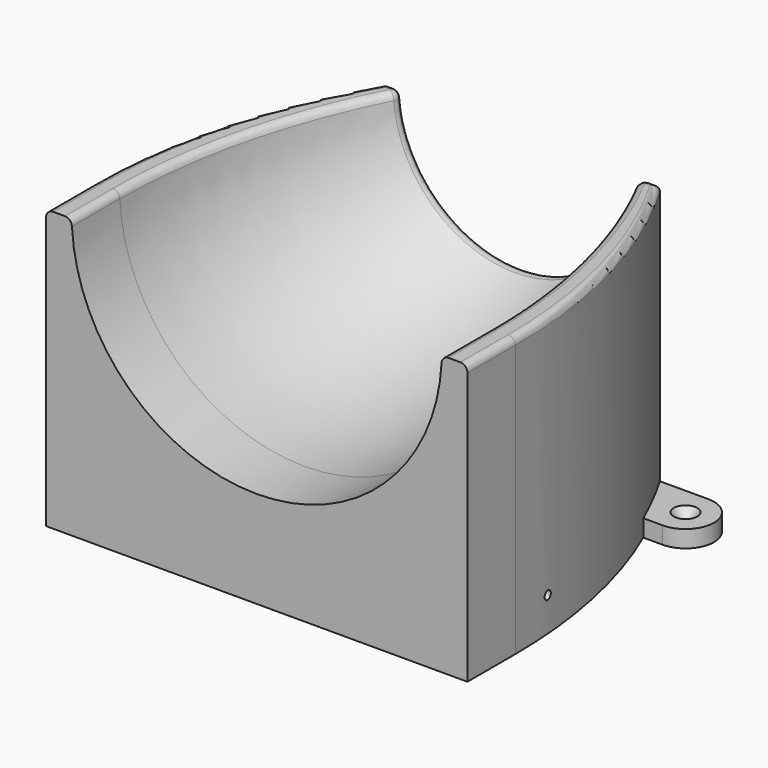
from build123d import *

# Parameters (mm, degrees)
CYLINDER063_R              = 1.6
CYLINDER063_DEPTH          = 10
EXTRUDE027_DEPTH           = 6
EXTRUDE030_DEPTH           = 6
EXTRUDE030_PLACEMENT_ANGLE = 180
CYLINDER072_R              = 1.5
CYLINDER072_DEPTH          = 45
PRISM011_DEPTH             = 3
CYLINDER071_R              = 3
CYLINDER071_DEPTH          = 5
FUSION063_PLACEMENT_ANGLE  = 180
CYLINDER070_R              = 1.5
CYLINDER070_DEPTH          = 45
PRISM010_DEPTH             = 3
CYLINDER068_R              = 3
CYLINDER068_DEPTH          = 5
EXTRUDE026_DEPTH           = 24
REVOLVE001_ANGLE           = 180
EXTRUDE025_DEPTH           = 74
FILLET004_R                = 2.5


with BuildPart() as cono003:
    # Cone003 → Cone003 (revolve)
    with BuildSketch(Plane(origin=(0, 0, -96), x_dir=(1, 0, 0), z_dir=(0, -1, 0))):
        Polygon((0, 0), (1.6, 0), (4.1, 3), (0, 3), align=None)
    revolve(axis=Axis((0, 0, -96), (0, 0, 1)))


with BuildPart() as cilindro063:
    # Cylinder063 → Cylinder063 (new body)
    with BuildSketch(Plane.XY.offset(-106)):
        Circle(CYLINDER063_R)
    extrude(amount=CYLINDER063_DEPTH)


with BuildPart() as fusion058:
    # Fusion058 base: copy of Cilindro063
    add(cilindro063.part)

    # Fusion058: union Cono003
    add(cono003.part)


with BuildPart() as fusion058_1:
    # Fusion058 placement: moved
    add(fusion058.part.moved(Location((65, 107, 0))))


with BuildPart() as fusion059:
    # Fusion057 base: copy of Cilindro063
    add(cilindro063.part)

    # Fusion057: union Cono003
    add(cono003.part)


with BuildPart() as fusion059_1:
    # Fusion057 placement: moved
    add(fusion059.part.moved(Location((-65, 107, 0))))

    # Fusion059: union Fusion058
    add(fusion058_1.part)


with BuildPart() as extrude027:
    # Sketch020 → Extrude027 (new body)
    with BuildSketch(Plane.XY.offset(-99)):
        with BuildLine():
            ThreePointArc((0, 10), (-10, 0), (0, -10))
            Line((20, -10), (0, -10))
            Line((20, 10), (20, -10))
            Line((0, 10), (20, 10))
        make_face()
    extrude(amount=EXTRUDE027_DEPTH)


with BuildPart() as extrude027_1:
    # Extrude027 placement: moved
    add(extrude027.part.moved(Location((-65, 107, 0))))


with BuildPart() as cut022:
    # Sketch020 → Extrude030 (new body)
    with BuildSketch(Plane.XY.offset(-99)):
        with BuildLine():
            ThreePointArc((0, 10), (-10, 0), (0, -10))
            Line((20, -10), (0, -10))
            Line((20, 10), (20, -10))
            Line((0, 10), (20, 10))
        make_face()
    extrude(amount=EXTRUDE030_DEPTH)


with BuildPart() as cut022_1:
    # Extrude030 placement: moved
    add(cut022.part.moved(Location((65, 107, 0))).rotate(Axis((65, 107, 0), (0, 0, 1)), EXTRUDE030_PLACEMENT_ANGLE))

    # Fusion055: union Extrude027
    add(extrude027_1.part)

    # Cut022: cut Fusion059
    add(fusion059_1.part, mode=Mode.SUBTRACT)


with BuildPart() as cilindro072:
    # Cylinder072 → Cylinder072 (new body)
    with BuildSketch(Plane(origin=(33, 0, -87), x_dir=(0, 0, 1), z_dir=(-1, 0, 0))):
        Circle(CYLINDER072_R)
    extrude(amount=CYLINDER072_DEPTH)


with BuildPart() as prisma011:
    # Prism011 → Prism011 (new body)
    with BuildSketch(Plane(origin=(0, 0, -87), x_dir=(0, 0, 1), z_dir=(-1, 0, 0))):
        Polygon((3, 0), (1.5, 2.598076), (-1.5, 2.598076), (-3, 0), (-1.5, -2.598076), (1.5, -2.598076), align=None)
    extrude(amount=PRISM011_DEPTH)


with BuildPart() as fusion063:
    # Cylinder071 → Cylinder071 (new body)
    with BuildSketch(Plane(origin=(24, 0, -87), x_dir=(0, 0, 1), z_dir=(-1, 0, 0))):
        Circle(CYLINDER071_R)
    extrude(amount=CYLINDER071_DEPTH)

    # Fusion063: union Cilindro072, Prisma011
    add(cilindro072.part)
    add(prisma011.part)


with BuildPart() as fusion063_1:
    # Fusion063 placement: moved
    add(fusion063.part.moved(Location((-65, 36, 0))).rotate(Axis((-65, 36, 0), (0, 0, 1)), FUSION063_PLACEMENT_ANGLE))


with BuildPart() as cilindro070:
    # Cylinder070 → Cylinder070 (new body)
    with BuildSketch(Plane(origin=(98, 36, -87), x_dir=(0, 0, 1), z_dir=(-1, 0, 0))):
        Circle(CYLINDER070_R)
    extrude(amount=CYLINDER070_DEPTH)


with BuildPart() as prisma010:
    # Prism010 → Prism010 (new body)
    with BuildSketch(Plane(origin=(65, 36, -87), x_dir=(0, 0, 1), z_dir=(-1, 0, 0))):
        Polygon((3, 0), (1.5, 2.598076), (-1.5, 2.598076), (-3, 0), (-1.5, -2.598076), (1.5, -2.598076), align=None)
    extrude(amount=PRISM010_DEPTH)


with BuildPart() as fusion061:
    # Cylinder068 → Cylinder068 (new body)
    with BuildSketch(Plane(origin=(89, 36, -87), x_dir=(0, 0, 1), z_dir=(-1, 0, 0))):
        Circle(CYLINDER068_R)
    extrude(amount=CYLINDER068_DEPTH)

    # Fusion062: union Cilindro070, Prisma010
    add(cilindro070.part)
    add(prisma010.part)

    # Fusion061: union Fusion063
    add(fusion063_1.part)


with BuildPart() as cut023:
    # Sketch019 → Extrude026 (new body)
    with BuildSketch(Plane.XY.offset(-75)):
        with BuildLine():
            ThreePointArc((-48, 117), (-67.384986, 70.729267), (-74, 21))
            Line((-74, 21), (-74, 0))
            Line((-74, 0), (74, 0))
            Line((74, 21), (74, 0))
            ThreePointArc((74, 21), (67.384986, 70.729267), (48, 117))
            Line((-48, 117), (48, 117))
        make_face()
        with BuildLine():
            Line((-38, 107), (-7.5, 107))
            Line((-7.5, 107), (-7.5, 7.5))
            Line((-7.5, 7.5), (-64, 7.5))
            Line((-64, 7.5), (-64, 21))
            ThreePointArc((-38, 107), (-57.357897, 65.922155), (-64, 21))
        make_face(mode=Mode.SUBTRACT)
        with BuildLine():
            Line((7.5, 107), (7.5, 7.5))
            Line((7.5, 7.5), (64, 7.5))
            Line((64, 7.5), (64, 21))
            ThreePointArc((64, 21), (57.357897, 65.922155), (38, 107))
            Line((38, 107), (7.5, 107))
        make_face(mode=Mode.SUBTRACT)
    extrude(amount=-EXTRUDE026_DEPTH)

    # Cut023: cut Fusion061
    add(fusion061.part, mode=Mode.SUBTRACT)


with BuildPart() as revolve001:
    # Sketch017 → Revolve001 (revolve)
    with BuildSketch(Plane.XY):
        with BuildLine():
            Line((-65, 21), (-65, -21))
            ThreePointArc((-65, -21), (-58.133531, -73.27332), (-38, -122))
            Line((-38, -122), (0, -122))
            Line((0, 122), (0, -122))
            Line((0, 122), (-38, 122))
            ThreePointArc((-38, 122), (-58.133531, 73.27332), (-65, 21))
        make_face()
    revolve(axis=Axis((0, 0, 0), (0, -1, 0)), revolution_arc=REVOLVE001_ANGLE)


with BuildPart() as obj1:
    # Sketch018 → Extrude025 (new body)
    with BuildSketch(Plane.XY):
        with BuildLine():
            Line((-74, 21), (-74, 0))
            Line((-74, 0), (74, 0))
            Line((74, 21), (74, 0))
            ThreePointArc((74, 21), (67.384986, 70.729267), (48, 117))
            Line((-48, 117), (48, 117))
            ThreePointArc((-48, 117), (-67.384986, 70.729267), (-74, 21))
        make_face()
    extrude(amount=-EXTRUDE025_DEPTH)


with BuildPart() as obj1_1:
    # Extrude025 placement: moved
    add(obj1.part.moved(Location((0, 0, -1))))

    # Cut021: cut Revolve001
    add(revolve001.part, mode=Mode.SUBTRACT)

    # Fillet004
    fillet004_edges = [obj1_1.edges().sort_by_distance(p)[0] for p in [
        (67.384986, 70.729267, -1),
        (74, 10.5, -1),
        (44.386684, 117, -1),
        (0, 117, -40.78563),
        (-44.386684, 117, -1),
        (64.992307, 10.5, -1),
        (58.844411, 70.504014, -1),
        (-58.844411, 70.504014, -1),
        (-64.992307, 10.5, -1),
        (-74, 10.5, -1),
        (-67.384986, 70.729267, -1),
    ]]
    fillet(fillet004_edges, radius=FILLET004_R)

    # Fusion060: union Cut022, Cut023
    add(cut022_1.part)
    add(cut023.part)


solid = obj1_1.part
